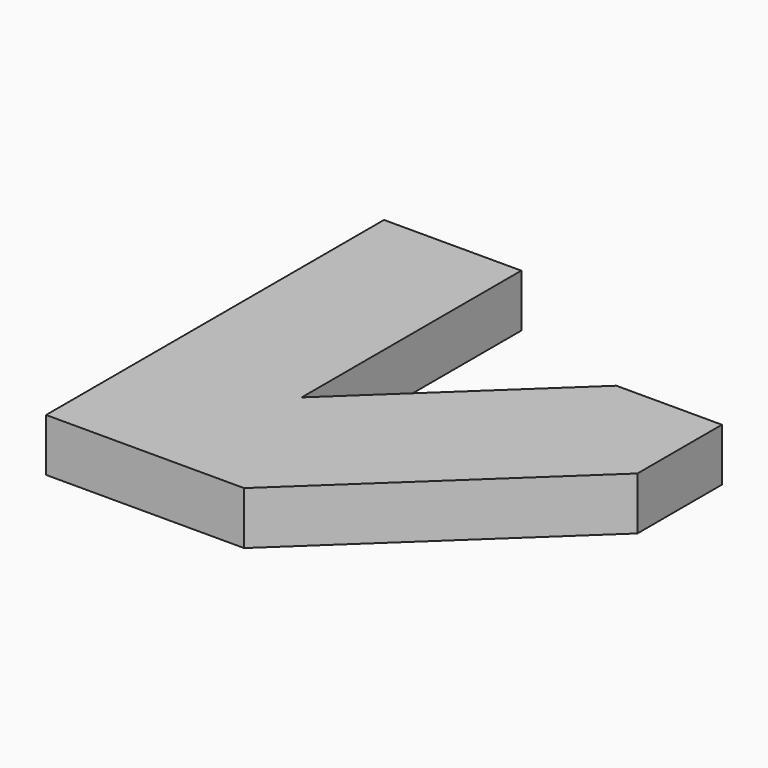
from build123d import *

# Parameters (mm, degrees)
PAD_DEPTH = 5


with BuildPart() as part:
    # Sketch → Pad (new body)
    with BuildSketch(Plane.XY):
        Polygon((0, 40), (13, 40), (13, 14), (30, 30), (40, 30), (40, 20), (18.75, 0), (0, 0), align=None)
    extrude(amount=PAD_DEPTH)


with BuildPart() as part_1:
    # Body placement: moved
    add(part.part.moved(Location((-16, 0, 0))))


solid = part_1.part
